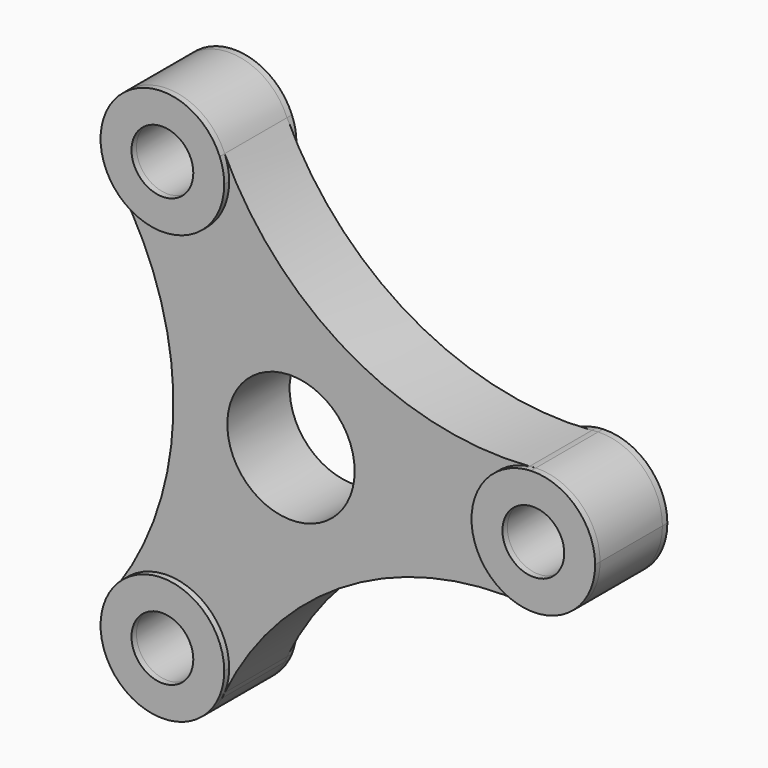
from build123d import *

# Parameters (mm, degrees)
F0_R     = 25
F1_DEPTH = 36.5
F0_R_2   = 51.5
F2_DEPTH = 31.5


with BuildPart() as f1:
    # F0 (on Front) → F1 (new body, symmetric)
    with BuildSketch(Plane.XZ):
        with BuildLine():
            ThreePointArc((192.998898, -49.507419), (232.786773, -37.749537), (250, 0))
            ThreePointArc((250, 0), (234.654829, 36.042237), (198.038287, 49.961502))
            ThreePointArc((198.038287, 49.961502), (195.519737, 49.721759), (192.998898, 49.507419))
            ThreePointArc((192.998898, 49.507419), (150, 0), (192.998898, -49.507419))
        make_face()
        with Locations((200, 0)):
            Circle(F0_R, mode=Mode.SUBTRACT)
        with BuildLine():
            ThreePointArc((-55.751213, -196.486938), (-54.699562, -194.185938), (-53.624766, -191.895658))
            ThreePointArc((-53.624766, -191.895658), (-50.914556, -182.72449), (-50, -173.205081))
            ThreePointArc((-50, -173.205081), (-83.701328, -125.936134), (-139.374132, -142.388239))
            ThreePointArc((-139.374132, -142.388239), (-127.158937, -215.185935), (-55.751213, -196.486938))
        make_face()
        with Locations((-100, -173.205081)):
            Circle(F0_R, mode=Mode.SUBTRACT)
        with BuildLine():
            ThreePointArc((-50, 173.205081), (-50.914556, 182.72449), (-53.624766, 191.895658))
            ThreePointArc((-53.624766, 191.895658), (-122.777018, 217.715838), (-142.287073, 146.525436))
            ThreePointArc((-142.287073, 146.525436), (-140.820175, 144.46418), (-139.374132, 142.388239))
            ThreePointArc((-139.374132, 142.388239), (-83.701328, 125.936134), (-50, 173.205081))
        make_face()
        with Locations((-100, 173.205081)):
            Circle(F0_R, mode=Mode.SUBTRACT)
    extrude(amount=F1_DEPTH, both=True)


with BuildPart() as f2:
    # F0 (on Front) → F2 (new body, symmetric)
    with BuildSketch(Plane.XZ):
        with BuildLine():
            ThreePointArc((192.998898, -49.507419), (232.786773, -37.749537), (250, 0))
            ThreePointArc((250, 0), (234.654829, 36.042237), (198.038287, 49.961502))
            ThreePointArc((198.038287, 49.961502), (195.519737, 49.721759), (192.998898, 49.507419))
            ThreePointArc((192.998898, 49.507419), (150, 0), (192.998898, -49.507419))
        make_face()
        with Locations((200, 0)):
            Circle(F0_R, mode=Mode.SUBTRACT)
        with BuildLine():
            ThreePointArc((192.998898, 49.507419), (195.519737, 49.721759), (198.038287, 49.961502))
            ThreePointArc((198.038287, 49.961502), (195.512845, 49.798247), (192.998898, 49.507419))
        make_face()
        with BuildLine():
            ThreePointArc((-53.624766, -191.895658), (47.532215, -82.328212), (192.998898, -49.507419))
            ThreePointArc((192.998898, -49.507419), (150, 0), (192.998898, 49.507419))
            ThreePointArc((192.998898, 49.507419), (47.532215, 82.328212), (-53.624766, 191.895658))
            ThreePointArc((-53.624766, 191.895658), (-50.914556, 182.72449), (-50, 173.205081))
            ThreePointArc((-50, 173.205081), (-83.701328, 125.936134), (-139.374132, 142.388239))
            ThreePointArc((-139.374132, 142.388239), (-95.064431, 0), (-139.374132, -142.388239))
            ThreePointArc((-139.374132, -142.388239), (-83.701328, -125.936134), (-50, -173.205081))
            ThreePointArc((-50, -173.205081), (-50.914556, -182.72449), (-53.624766, -191.895658))
        make_face()
        Circle(F0_R_2, mode=Mode.SUBTRACT)
        with BuildLine():
            ThreePointArc((-55.751213, -196.486938), (-54.699562, -194.185938), (-53.624766, -191.895658))
            ThreePointArc((-53.624766, -191.895658), (-50.914556, -182.72449), (-50, -173.205081))
            ThreePointArc((-50, -173.205081), (-83.701328, -125.936134), (-139.374132, -142.388239))
            ThreePointArc((-139.374132, -142.388239), (-127.158937, -215.185935), (-55.751213, -196.486938))
        make_face()
        with Locations((-100, -173.205081)):
            Circle(F0_R, mode=Mode.SUBTRACT)
        with BuildLine():
            ThreePointArc((-55.751213, -196.486938), (-54.629875, -194.218214), (-53.624766, -191.895658))
            ThreePointArc((-53.624766, -191.895658), (-54.699562, -194.185938), (-55.751213, -196.486938))
        make_face()
        with BuildLine():
            ThreePointArc((-50, 173.205081), (-50.914556, 182.72449), (-53.624766, 191.895658))
            ThreePointArc((-53.624766, 191.895658), (-122.777018, 217.715838), (-142.287073, 146.525436))
            ThreePointArc((-142.287073, 146.525436), (-140.820175, 144.46418), (-139.374132, 142.388239))
            ThreePointArc((-139.374132, 142.388239), (-83.701328, 125.936134), (-50, 173.205081))
        make_face()
        with Locations((-100, 173.205081)):
            Circle(F0_R, mode=Mode.SUBTRACT)
        with BuildLine():
            ThreePointArc((-139.374132, 142.388239), (-140.820175, 144.46418), (-142.287073, 146.525436))
            ThreePointArc((-142.287073, 146.525436), (-140.88297, 144.419967), (-139.374132, 142.388239))
        make_face()
    extrude(amount=F2_DEPTH, both=True)


solid = Compound([f1.part, f2.part])
